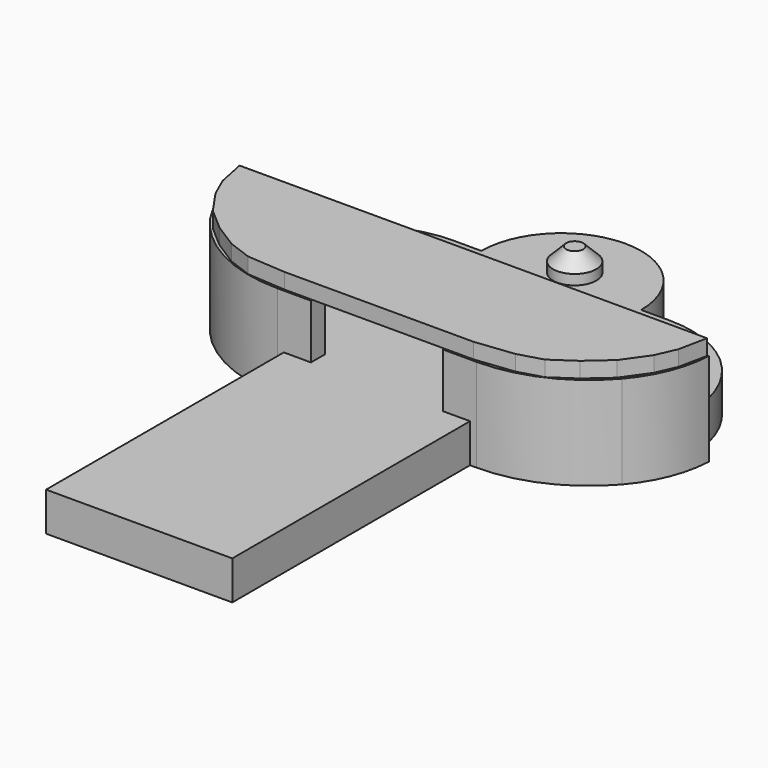
from build123d import *

# Parameters (mm, degrees)
PAD001_DEPTH    = 2.5
PAD_DEPTH       = 6
SKETCH008_W     = 12.02
SKETCH008_H     = 3.5
POCKET001_DEPTH = 8.5
SKETCH009_R     = 1.395576
PAD003_DEPTH    = 1.5
CHAMFER_SIZE    = 0.85
PAD002_DEPTH    = 1


with BuildPart() as body_key_holder_id_badge:
    # Sketch → Pad001 (new body)
    with BuildSketch(Plane.XY):
        with BuildLine():
            Line((-6, 0), (-6, -20))
            Line((-6, -20), (6, -20))
            Line((6, -20), (6, 0))
            Line((6, 0), (7, 0))
            ThreePointArc((7, 0), (14, 7.000002), (6.999995, 14))
            Line((6.999995, 14), (5.15, 14))
            ThreePointArc((5.15, 14), (0, 19.15), (-5.15, 14))
            Line((-6.999972, 14), (-5.15, 14))
            ThreePointArc((-6.999972, 14), (-14, 7.000014), (-7, 0))
            Line((-6, 0), (-7, 0))
        make_face()
    extrude(amount=PAD001_DEPTH)

    # Sketch007 → Pad (join)
    with BuildSketch(Plane.XY):
        with BuildLine():
            Line((-4.26, -0.85), (-6.42, -0.85))
            ThreePointArc((-13.289279, 2.3), (-10.198541, -0.024954), (-6.42, -0.85))
            ThreePointArc((-15.146324, 6.95), (-14.606061, 4.469943), (-13.289279, 2.3))
            Line((-15.146324, 6.95), (-13.926324, 6.95))
            ThreePointArc((-13.926324, 6.95), (-13.714749, 5.304281), (-13.093783, 3.765595))
            ThreePointArc((-13.093783, 3.765595), (-11.848941, 2.169462), (-10.185853, 1.015595))
            ThreePointArc((-10.185853, 1.015595), (-8.780661, 0.49594), (-7.299596, 0.27))
            Line((-7.299596, 0.27), (-4.325, 0.27))
            Line((-4.325, 0.27), (4.325, 0.27))
            Line((7.299596, 0.27), (4.325, 0.27))
            ThreePointArc((7.299596, 0.27), (8.780661, 0.49594), (10.185853, 1.015595))
            ThreePointArc((10.185853, 1.015595), (11.848941, 2.169462), (13.093783, 3.765595))
            ThreePointArc((13.093783, 3.765595), (13.714749, 5.304281), (13.926324, 6.95))
            Line((15.146324, 6.95), (13.926324, 6.95))
            ThreePointArc((13.289279, 2.3), (14.606061, 4.469943), (15.146324, 6.95))
            ThreePointArc((6.42, -0.85), (10.198541, -0.024954), (13.289279, 2.3))
            Line((4.26, -0.85), (6.42, -0.85))
            Line((-4.26, -0.85), (4.26, -0.85))
        make_face()
    extrude(amount=PAD_DEPTH)

    # Sketch008 (on Face31 of Pad) → Pocket001 (cut)
    with BuildSketch(Plane.YZ.offset(4.25)):
        with Locations((0, 4.25)):
            Rectangle(SKETCH008_W, SKETCH008_H)
    extrude(amount=-POCKET001_DEPTH, mode=Mode.SUBTRACT)

    # Sketch009 (on Face4 of Pocket001) → Pad003 (join)
    with BuildSketch(Plane.XY.offset(2.5)):
        with Locations((0, 15.081774)):
            Circle(SKETCH009_R)
    extrude(amount=PAD003_DEPTH)

    # Chamfer
    chamfer_edges = [body_key_holder_id_badge.edges().sort_by_distance(p)[0] for p in [
        (-1.395576, 15.081774, 4),
    ]]
    chamfer(chamfer_edges, length=CHAMFER_SIZE)


with BuildPart() as body_top:
    # Sketch005 → Pad002 (new body)
    with BuildSketch(Plane.XY.offset(6)):
        Polygon((-15.061801, 6.911447), (-14.686801, 5.081447), (-14.121801, 3.801447), (-13.03, 2.22), (-11.62, 0.998293), (-10.043905, 0), (-8.53, -0.558553), (-6.04, -0.73), (6.12, -0.73), (8.6, -0.448764), (10.15, 0), (11.62, 0.998293), (13.02, 2.231447), (14.128199, 3.801447), (14.693199, 5.081447), (15.068199, 6.911447), align=None)
    extrude(amount=PAD002_DEPTH)


solid = Compound([body_key_holder_id_badge.part, body_top.part])
